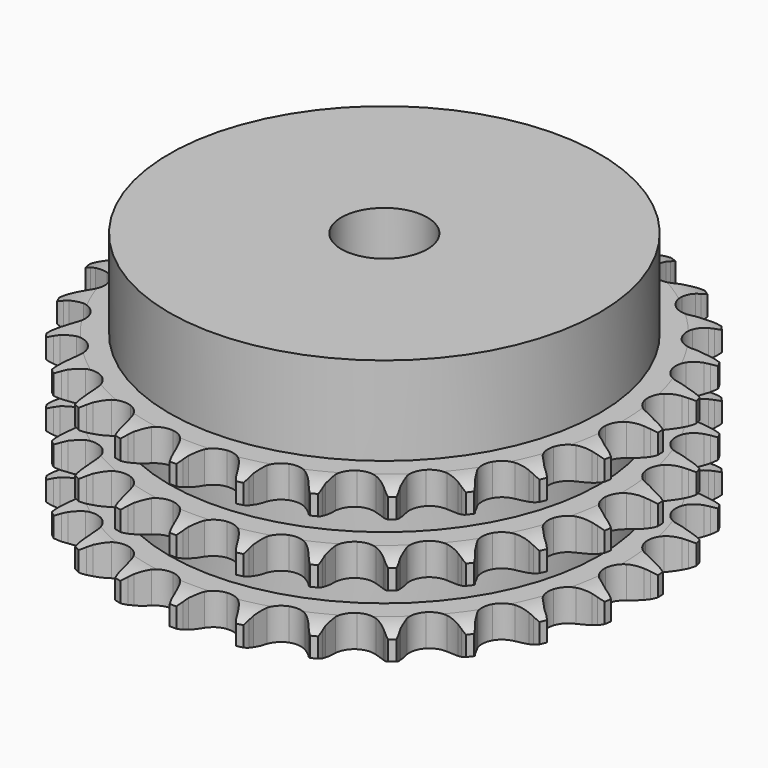
from build123d import *

# Parameters (mm, degrees)
PAD_DEPTH         = 25.6
SKETCH001_R       = 35
PAD001_DEPTH      = 40
SKETCH002_R       = 7
POCKET_DEPTH      = 0.001
POCKET_DEPTH_BACK = 40.001


with BuildPart() as part:
    # Sprocket → Pad (new body)
    with BuildSketch(Plane.XY):
        with BuildLine():
            ThreePointArc((-5.093235, 43.575406), (-4.465493, 42.777113), (-4.005642, 41.871645))
            Line((-4.005642, 41.871645), (-3.696414, 41.078363))
            ThreePointArc((-3.696414, 41.078363), (-3.203711, 40.034995), (-2.571218, 39.069943))
            ThreePointArc((-2.571218, 39.069943), (-1.435155, 38.130666), (0, 37.794201))
            ThreePointArc((0, 37.794201), (1.435155, 38.130666), (2.571218, 39.069943))
            ThreePointArc((2.571218, 39.069943), (3.203711, 40.034995), (3.696414, 41.078363))
            Line((3.696414, 41.078363), (4.005642, 41.871645))
            ThreePointArc((4.005642, 41.871645), (4.465493, 42.777113), (5.093235, 43.575406))
            ThreePointArc((5.093235, 43.575406), (5.519956, 42.653863), (5.758596, 41.666755))
            Line((5.758596, 41.666755), (5.876546, 40.823542))
            ThreePointArc((5.876546, 40.823542), (6.115351, 39.694673), (6.508239, 38.609771))
            ThreePointArc((6.508239, 38.609771), (7.397067, 37.433819), (8.715942, 36.775453))
            ThreePointArc((8.715942, 36.775453), (10.190007, 36.77188), (11.512059, 37.423844))
            Line((11.512059, 37.423844), (13.070099, 39.118639))
            ThreePointArc((13.070099, 39.118639), (13.303038, 39.475133), (13.553936, 39.819225))
            ThreePointArc((13.553936, 39.819225), (14.210206, 40.594237), (15.005126, 41.226245))
            ThreePointArc((15.005126, 41.226245), (15.207823, 40.231133), (15.212387, 39.215598))
            Line((15.212387, 39.215598), (15.1327, 38.367914))
            ThreePointArc((15.1327, 38.367914), (15.104732, 37.214401), (15.236834, 36.068137))
            ThreePointArc((15.236834, 36.068137), (15.83051, 34.718904), (16.962006, 33.774131))
            ThreePointArc((16.962006, 33.774131), (18.395513, 33.430712), (19.832282, 33.760216))
            Line((19.832282, 33.760216), (21.739172, 35.050019))
            ThreePointArc((21.739172, 35.050019), (22.048045, 35.343184), (22.371533, 35.62014))
            ThreePointArc((22.371533, 35.62014), (23.188843, 36.222915), (24.108087, 36.654566))
            ThreePointArc((24.108087, 36.654566), (24.075832, 35.639533), (23.846075, 34.650319))
            Line((23.846075, 34.650319), (23.573046, 33.843861))
            ThreePointArc((23.573046, 33.843861), (23.279814, 32.727891), (23.144008, 31.58206))
            ThreePointArc((23.144008, 31.58206), (23.410527, 30.132285), (24.293644, 28.952037))
            ThreePointArc((24.293644, 28.952037), (25.609312, 28.287285), (27.083342, 28.276566))
            Line((27.083342, 28.276566), (29.23628, 29.091843))
            ThreePointArc((29.23628, 29.091843), (29.604436, 29.305875), (29.983075, 29.500764))
            ThreePointArc((29.983075, 29.500764), (30.917364, 29.898806), (31.911375, 30.10683))
            ThreePointArc((31.911375, 30.10683), (31.645907, 29.126595), (31.194214, 28.217032))
            Line((31.194214, 28.217032), (30.742563, 27.495277))
            ThreePointArc((30.742563, 27.495277), (30.199875, 26.477012), (29.803482, 25.393385))
            ThreePointArc((29.803482, 25.393385), (29.728477, 23.921226), (30.315605, 22.569132))
            ThreePointArc((30.315605, 22.569132), (31.442507, 21.618884), (32.874332, 21.268519))
            Line((32.874332, 21.268519), (35.157253, 21.565318))
            ThreePointArc((35.157253, 21.565318), (35.564845, 21.688679), (35.978222, 21.790994))
            ThreePointArc((35.978222, 21.790994), (36.979121, 21.962845), (37.994313, 21.936027))
            ThreePointArc((37.994313, 21.936027), (37.509943, 21.043436), (36.860665, 20.262557))
            Line((36.860665, 20.262557), (36.25474, 19.664415))
            ThreePointArc((36.25474, 19.664415), (35.491852, 18.79875), (34.856243, 17.835747))
            ThreePointArc((34.856243, 17.835747), (34.443756, 16.420568), (34.703244, 14.969518))
            ThreePointArc((34.703244, 14.969518), (35.580628, 13.785003), (36.893058, 13.11388))
            Line((36.893058, 13.11388), (39.18289, 12.876202))
            ThreePointArc((39.18289, 12.876202), (39.607943, 12.90224), (40.033773, 12.906466))
            ThreePointArc((40.033773, 12.906466), (41.047325, 12.842862), (42.028967, 12.582647))
            ThreePointArc((42.028967, 12.582647), (41.351808, 11.825819), (40.539949, 11.215723))
            Line((40.539949, 11.215723), (39.812415, 10.77344))
            ThreePointArc((39.812415, 10.77344), (38.870455, 10.107043), (38.029895, 9.31658))
            ThreePointArc((38.029895, 9.31658), (37.302164, 8.034672), (37.220022, 6.562894))
            ThreePointArc((37.220022, 6.562894), (37.800588, 5.207969), (38.92287, 4.252269))
            Line((38.92287, 4.252269), (41.096166, 3.492926))
            ThreePointArc((41.096166, 3.492926), (41.515768, 3.420238), (41.931094, 3.326147))
            ThreePointArc((41.931094, 3.326147), (42.902657, 3.030516), (43.797829, 2.550933))
            ThreePointArc((43.797829, 2.550933), (42.964386, 1.97067), (42.033713, 1.564246))
            Line((42.033713, 1.564246), (41.223793, 1.301666))
            ThreePointArc((41.223793, 1.301666), (40.153541, 0.870463), (39.153346, 0.295153))
            ThreePointArc((39.153346, 0.295153), (38.149602, -0.784374), (37.730259, -2.197537))
            ThreePointArc((37.730259, -2.197537), (37.982708, -3.649828), (38.85434, -4.838583))
            Line((38.85434, -4.838583), (40.793938, -6.078654))
            ThreePointArc((40.793938, -6.078654), (41.185466, -6.24615), (41.567898, -6.433485))
            ThreePointArc((41.567898, -6.433485), (42.445095, -6.945206), (43.205538, -7.618302))
            ThreePointArc((43.205538, -7.618302), (42.260743, -7.990719), (41.261428, -8.17156))
            Line((41.261428, -8.17156), (40.412785, -8.240282))
            ThreePointArc((40.412785, -8.240282), (39.27194, -8.413045), (38.166029, -8.742186))
            ThreePointArc((38.166029, -8.742186), (36.940386, -9.561135), (36.206448, -10.839499))
            ThreePointArc((36.206448, -10.839499), (36.117171, -12.310862), (36.691162, -13.668586))
            Line((36.691162, -13.668586), (38.292498, -15.322533))
            ThreePointArc((38.292498, -15.322533), (38.634845, -15.575806), (38.963766, -15.846287))
            ThreePointArc((38.963766, -15.846287), (39.699308, -16.546509), (40.284026, -17.376833))
            ThreePointArc((40.284026, -17.376833), (39.278812, -17.521326), (38.26473, -17.466835))
            Line((38.26473, -17.466835), (37.423113, -17.337993))
            ThreePointArc((37.423113, -17.337993), (36.273178, -17.243003), (35.121172, -17.308231))
            ThreePointArc((35.121172, -17.308231), (33.739703, -17.822453), (32.730738, -18.8971))
            ThreePointArc((32.730738, -18.8971), (32.304548, -20.308214), (32.549954, -21.761711))
            Line((32.549954, -21.761711), (33.726699, -23.74037))
            ThreePointArc((33.726699, -23.74037), (34.00141, -24.065767), (34.259087, -24.404811))
            ThreePointArc((34.259087, -24.404811), (34.81332, -25.255786), (35.190792, -26.198574))
            ThreePointArc((35.190792, -26.198574), (34.179351, -26.107354), (33.20517, -25.820468))
            Line((33.20517, -25.820468), (32.415952, -25.501009))
            ThreePointArc((32.415952, -25.501009), (31.31892, -25.143386), (30.182923, -24.941185))
            ThreePointArc((30.182923, -24.941185), (28.720105, -25.122957), (27.490505, -25.935954))
            ThreePointArc((27.490505, -25.935954), (26.750379, -27.210745), (26.65397, -28.681658))
            Line((26.65397, -28.681658), (27.342686, -30.878357))
            ThreePointArc((27.342686, -30.878357), (27.534949, -31.258335), (27.707493, -31.647665))
            ThreePointArc((27.707493, -31.647665), (28.050537, -32.603517), (28.200412, -33.607943))
            ThreePointArc((28.200412, -33.607943), (27.237272, -33.285928), (26.355511, -32.782113))
            Line((26.355511, -32.782113), (25.661238, -32.289259))
            ThreePointArc((25.661238, -32.289259), (24.676251, -31.688283), (23.617505, -31.229554))
            ThreePointArc((23.617505, -31.229554), (22.152198, -31.069076), (20.768253, -31.576594))
            ThreePointArc((20.768253, -31.576594), (19.754089, -32.646338), (19.321063, -34.055368))
            Line((19.321063, -34.055368), (19.484621, -36.351684))
            ThreePointArc((19.484621, -36.351684), (19.584073, -36.765759), (19.66218, -37.184386))
            ThreePointArc((19.66218, -37.184386), (19.775543, -38.193584), (19.689742, -39.205499))
            ThreePointArc((19.689742, -39.205499), (18.826825, -38.670049), (18.085019, -37.976466))
            Line((18.085019, -37.976466), (17.52312, -37.336787))
            ThreePointArc((17.52312, -37.336787), (16.703278, -36.524856), (15.778862, -35.834329))
            ThreePointArc((15.778862, -35.834329), (14.390061, -35.340254), (12.926378, -35.514931))
            ThreePointArc((12.926378, -35.514931), (11.692851, -36.321958), (10.946553, -37.593145))
            Line((10.946553, -37.593145), (10.576135, -39.865283))
            ThreePointArc((10.576135, -39.865283), (10.577414, -40.291132), (10.556873, -40.716487))
            ThreePointArc((10.556873, -40.716487), (10.434444, -41.724625), (10.117592, -42.689477))
            ThreePointArc((10.117592, -42.689477), (9.401418, -41.969457), (8.839559, -41.123498))
            Line((8.839559, -41.123498), (8.440327, -40.371479))
            ThreePointArc((8.440327, -40.371479), (7.829828, -39.392365), (7.089576, -38.507266))
            ThreePointArc((7.089576, -38.507266), (5.852151, -37.706229), (4.387639, -37.53865))
            ThreePointArc((4.387639, -37.53865), (3.001249, -38.039452), (1.981911, -39.104266))
            Line((1.981911, -39.104266), (1.097487, -41.229734))
            ThreePointArc((1.097487, -41.229734), (1.000524, -41.644399), (0.882444, -42.053551))
            ThreePointArc((0.882444, -42.053551), (0.530821, -43.006281), (0, -43.872053))
            ThreePointArc((0, -43.872053), (-0.530821, -43.006281), (-0.882444, -42.053551))
            Line((-0.882444, -42.053551), (-1.097487, -41.229734))
            ThreePointArc((-1.097487, -41.229734), (-1.465731, -40.136221), (-1.981911, -39.104266))
            ThreePointArc((-1.981911, -39.104266), (-3.001249, -38.039452), (-4.387639, -37.53865))
            ThreePointArc((-4.387639, -37.53865), (-5.852151, -37.706229), (-7.089576, -38.507266))
            Line((-7.089576, -38.507266), (-8.440327, -40.371479))
            ThreePointArc((-8.440327, -40.371479), (-8.630304, -40.752605), (-8.839559, -41.123498))
            ThreePointArc((-8.839559, -41.123498), (-9.401418, -41.969457), (-10.117592, -42.689477))
            ThreePointArc((-10.117592, -42.689477), (-10.434444, -41.724625), (-10.556873, -40.716487))
            Line((-10.556873, -40.716487), (-10.576135, -39.865283))
            ThreePointArc((-10.576135, -39.865283), (-10.682271, -38.716323), (-10.946553, -37.593145))
            ThreePointArc((-10.946553, -37.593145), (-11.692851, -36.321958), (-12.926378, -35.514931))
            ThreePointArc((-12.926378, -35.514931), (-14.390061, -35.340254), (-15.778862, -35.834329))
            Line((-15.778862, -35.834329), (-17.52312, -37.336787))
            ThreePointArc((-17.52312, -37.336787), (-17.795871, -37.663828), (-18.085019, -37.976466))
            ThreePointArc((-18.085019, -37.976466), (-18.826825, -38.670049), (-19.689742, -39.205499))
            ThreePointArc((-19.689742, -39.205499), (-19.775543, -38.193584), (-19.66218, -37.184386))
            Line((-19.66218, -37.184386), (-19.484621, -36.351684))
            ThreePointArc((-19.484621, -36.351684), (-19.322928, -35.209218), (-19.321063, -34.055368))
            ThreePointArc((-19.321063, -34.055368), (-19.754089, -32.646338), (-20.768253, -31.576594))
            ThreePointArc((-20.768253, -31.576594), (-22.152198, -31.069076), (-23.617505, -31.229554))
            Line((-23.617505, -31.229554), (-25.661238, -32.289259))
            ThreePointArc((-25.661238, -32.289259), (-26.002057, -32.544585), (-26.355511, -32.782113))
            ThreePointArc((-26.355511, -32.782113), (-27.237272, -33.285928), (-28.200412, -33.607943))
            ThreePointArc((-28.200412, -33.607943), (-28.050537, -32.603517), (-27.707493, -31.647665))
            Line((-27.707493, -31.647665), (-27.342686, -30.878357))
            ThreePointArc((-27.342686, -30.878357), (-26.92188, -29.803975), (-26.65397, -28.681658))
            ThreePointArc((-26.65397, -28.681658), (-26.750379, -27.210745), (-27.490505, -25.935954))
            ThreePointArc((-27.490505, -25.935954), (-28.720105, -25.122957), (-30.182923, -24.941185))
            Line((-30.182923, -24.941185), (-32.415952, -25.501009))
            ThreePointArc((-32.415952, -25.501009), (-32.806466, -25.670854), (-33.20517, -25.820468))
            ThreePointArc((-33.20517, -25.820468), (-34.179351, -26.107354), (-35.190792, -26.198574))
            ThreePointArc((-35.190792, -26.198574), (-34.81332, -25.255786), (-34.259087, -24.404811))
            Line((-34.259087, -24.404811), (-33.726699, -23.74037))
            ThreePointArc((-33.726699, -23.74037), (-33.069467, -22.791993), (-32.549954, -21.761711))
            ThreePointArc((-32.549954, -21.761711), (-32.304548, -20.308214), (-32.730738, -18.8971))
            ThreePointArc((-32.730738, -18.8971), (-33.739703, -17.822453), (-35.121172, -17.308231))
            Line((-35.121172, -17.308231), (-37.423113, -17.337993))
            ThreePointArc((-37.423113, -17.337993), (-37.84227, -17.413201), (-38.26473, -17.466835))
            ThreePointArc((-38.26473, -17.466835), (-39.278812, -17.521326), (-40.284026, -17.376833))
            ThreePointArc((-40.284026, -17.376833), (-39.699308, -16.546509), (-38.963766, -15.846287))
            Line((-38.963766, -15.846287), (-38.292498, -15.322533))
            ThreePointArc((-38.292498, -15.322533), (-37.434271, -14.551287), (-36.691162, -13.668586))
            ThreePointArc((-36.691162, -13.668586), (-36.117171, -12.310862), (-36.206448, -10.839499))
            ThreePointArc((-36.206448, -10.839499), (-36.940386, -9.561135), (-38.166029, -8.742186))
            Line((-38.166029, -8.742186), (-40.412785, -8.240282))
            ThreePointArc((-40.412785, -8.240282), (-40.837987, -8.216798), (-41.261428, -8.17156))
            ThreePointArc((-41.261428, -8.17156), (-42.260743, -7.990719), (-43.205538, -7.618302))
            ThreePointArc((-43.205538, -7.618302), (-42.445095, -6.945206), (-41.567898, -6.433485))
            Line((-41.567898, -6.433485), (-40.793938, -6.078654))
            ThreePointArc((-40.793938, -6.078654), (-39.780983, -5.526119), (-38.85434, -4.838583))
            ThreePointArc((-38.85434, -4.838583), (-37.982708, -3.649828), (-37.730259, -2.197537))
            ThreePointArc((-37.730259, -2.197537), (-38.149602, -0.784374), (-39.153346, 0.295153))
            Line((-39.153346, 0.295153), (-41.223793, 1.301666))
            ThreePointArc((-41.223793, 1.301666), (-41.632118, 1.422575), (-42.033713, 1.564246))
            ThreePointArc((-42.033713, 1.564246), (-42.964386, 1.97067), (-43.797829, 2.550933))
            ThreePointArc((-43.797829, 2.550933), (-42.902657, 3.030516), (-41.931094, 3.326147))
            Line((-41.931094, 3.326147), (-41.096166, 3.492926))
            ThreePointArc((-41.096166, 3.492926), (-39.983092, 3.796965), (-38.92287, 4.252269))
            ThreePointArc((-38.92287, 4.252269), (-37.800588, 5.207969), (-37.220022, 6.562894))
            ThreePointArc((-37.220022, 6.562894), (-37.302164, 8.034672), (-38.029895, 9.31658))
            Line((-38.029895, 9.31658), (-39.812415, 10.77344))
            ThreePointArc((-39.812415, 10.77344), (-40.181851, 10.985256), (-40.539949, 11.215723))
            ThreePointArc((-40.539949, 11.215723), (-41.351808, 11.825819), (-42.028967, 12.582647))
            ThreePointArc((-42.028967, 12.582647), (-41.047325, 12.842862), (-40.033773, 12.906466))
            Line((-40.033773, 12.906466), (-39.18289, 12.876202))
            ThreePointArc((-39.18289, 12.876202), (-38.029702, 12.915353), (-36.893058, 13.11388))
            ThreePointArc((-36.893058, 13.11388), (-35.580628, 13.785003), (-34.703244, 14.969518))
            ThreePointArc((-34.703244, 14.969518), (-34.443756, 16.420568), (-34.856243, 17.835747))
            Line((-34.856243, 17.835747), (-36.25474, 19.664415))
            ThreePointArc((-36.25474, 19.664415), (-36.565369, 19.95572), (-36.860665, 20.262557))
            ThreePointArc((-36.860665, 20.262557), (-37.509943, 21.043436), (-37.994313, 21.936027))
            ThreePointArc((-37.994313, 21.936027), (-36.979121, 21.962845), (-35.978222, 21.790994))
            Line((-35.978222, 21.790994), (-35.157253, 21.565318))
            ThreePointArc((-35.157253, 21.565318), (-34.026122, 21.33747), (-32.874332, 21.268519))
            ThreePointArc((-32.874332, 21.268519), (-31.442507, 21.618884), (-30.315605, 22.569132))
            ThreePointArc((-30.315605, 22.569132), (-29.728477, 23.921226), (-29.803482, 25.393385))
            Line((-29.803482, 25.393385), (-30.742563, 27.495277))
            ThreePointArc((-30.742563, 27.495277), (-30.977639, 27.850365), (-31.194214, 28.217032))
            ThreePointArc((-31.194214, 28.217032), (-31.645907, 29.126595), (-31.911375, 30.10683))
            ThreePointArc((-31.911375, 30.10683), (-30.917364, 29.898806), (-29.983075, 29.500764))
            Line((-29.983075, 29.500764), (-29.23628, 29.091843))
            ThreePointArc((-29.23628, 29.091843), (-28.188184, 28.60928), (-27.083342, 28.276566))
            ThreePointArc((-27.083342, 28.276566), (-25.609312, 28.287285), (-24.293644, 28.952037))
            ThreePointArc((-24.293644, 28.952037), (-23.410527, 30.132285), (-23.144008, 31.58206))
            Line((-23.144008, 31.58206), (-23.573046, 33.843861))
            ThreePointArc((-23.573046, 33.843861), (-23.719897, 34.24359), (-23.846075, 34.650319))
            ThreePointArc((-23.846075, 34.650319), (-24.075832, 35.639533), (-24.108087, 36.654566))
            ThreePointArc((-24.108087, 36.654566), (-23.188843, 36.222915), (-22.371533, 35.62014))
            Line((-22.371533, 35.62014), (-21.739172, 35.050019))
            ThreePointArc((-21.739172, 35.050019), (-20.830614, 34.338756), (-19.832282, 33.760216))
            ThreePointArc((-19.832282, 33.760216), (-18.395513, 33.430712), (-16.962006, 33.774131))
            ThreePointArc((-16.962006, 33.774131), (-15.83051, 34.718904), (-15.236834, 36.068137))
            Line((-15.236834, 36.068137), (-15.1327, 38.367914))
            ThreePointArc((-15.1327, 38.367914), (-15.183408, 38.790735), (-15.212387, 39.215598))
            ThreePointArc((-15.212387, 39.215598), (-15.207823, 40.231133), (-15.005126, 41.226245))
            ThreePointArc((-15.005126, 41.226245), (-14.210206, 40.594237), (-13.553936, 39.819225))
            Line((-13.553936, 39.819225), (-13.070099, 39.118639))
            ThreePointArc((-13.070099, 39.118639), (-12.35006, 38.21702), (-11.512059, 37.423844))
            ThreePointArc((-11.512059, 37.423844), (-10.190007, 36.77188), (-8.715942, 36.775453))
            ThreePointArc((-8.715942, 36.775453), (-7.397067, 37.433819), (-6.508239, 38.609771))
            Line((-6.508239, 38.609771), (-5.876546, 40.823542))
            ThreePointArc((-5.876546, 40.823542), (-5.828379, 41.24666), (-5.758596, 41.666755))
            ThreePointArc((-5.758596, 41.666755), (-5.519956, 42.653863), (-5.093235, 43.575406))
        make_face()
    extrude(amount=PAD_DEPTH)

    # Sketch → Groove (revolve, cut)
    with BuildSketch(Plane.XZ):
        with BuildLine():
            ThreePointArc((38.641101, 0), (40.877169, 0.253206), (43, 1))
            Line((43, 1), (43, 4.2))
            ThreePointArc((43, 4.2), (40.877169, 4.946794), (38.641101, 5.2))
            Line((35, 5.2), (38.641101, 5.2))
            Line((35, 5.2), (35, 10.2))
            Line((35, 10.2), (38.641101, 10.2))
            ThreePointArc((38.641101, 10.2), (40.877169, 10.453206), (43, 11.2))
            Line((43, 14.4), (43, 11.2))
            ThreePointArc((43, 14.4), (40.877169, 15.146794), (38.641101, 15.4))
            Line((35, 15.4), (38.641101, 15.4))
            Line((35, 20.4), (35, 15.4))
            Line((38.641101, 20.4), (35, 20.4))
            ThreePointArc((38.641101, 20.4), (40.877169, 20.653206), (43, 21.4))
            Line((43, 21.4), (43, 24.6))
            ThreePointArc((43, 24.6), (40.877169, 25.346794), (38.641101, 25.6))
            Line((38.641101, 25.6), (53, 25.6))
            Line((53, 25.6), (53, 0))
            Line((38.641101, 0), (53, 0))
        make_face()
    revolve(axis=Axis((0, 0, 0), (0, 0, 1)), mode=Mode.SUBTRACT)

    # Sketch001 → Pad001 (join)
    with BuildSketch(Plane.XY):
        Circle(SKETCH001_R)
    extrude(amount=PAD001_DEPTH)

    # Sketch002 → Pocket (cut, two sides)
    with BuildSketch(Plane.XY) as pocket_sk:
        Circle(SKETCH002_R)
    extrude(amount=-POCKET_DEPTH, mode=Mode.SUBTRACT)
    extrude(pocket_sk.sketch, amount=POCKET_DEPTH_BACK, mode=Mode.SUBTRACT)


solid = part.part
